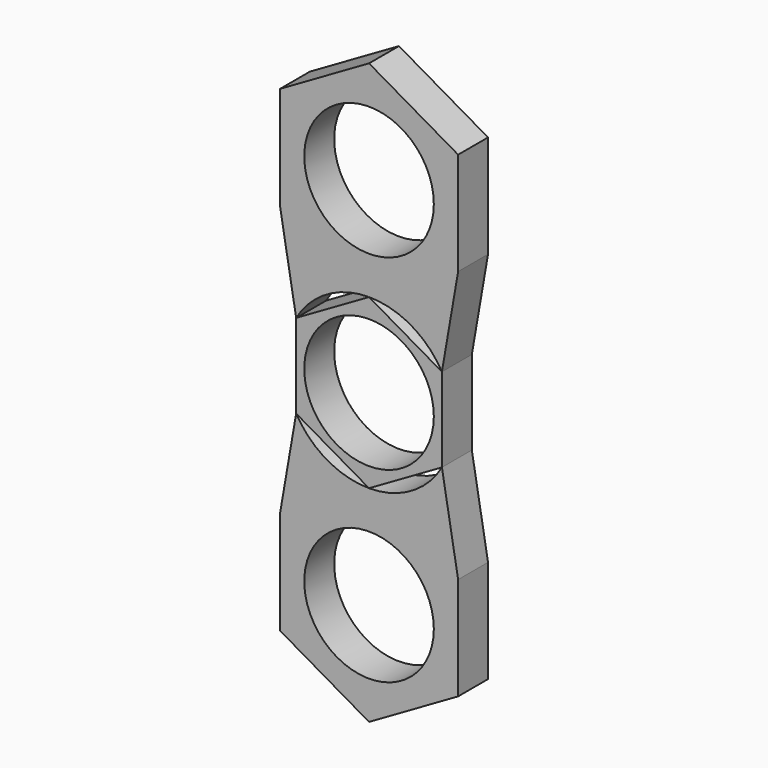
from build123d import *

# Parameters (mm, degrees)
F0_R     = 14.2875
F0_R_2   = 10.9982
F1_DEPTH = 6.35


with BuildPart() as f1:
    # F0 (on Front) → F1 (new body)
    with BuildSketch(Plane.XZ):
        with BuildLine():
            Line((-15.122969, -23.01875), (0, -14.2875))
            ThreePointArc((0, -14.2875), (-7.14375, -12.373338), (-12.373338, -7.14375))
            Line((-12.373338, -7.14375), (-15.122969, -23.01875))
        make_face()
        with BuildLine():
            Line((15.122969, -23.01875), (12.373338, -7.14375))
            ThreePointArc((12.373338, -7.14375), (7.14375, -12.373338), (0, -14.2875))
            Line((0, -14.2875), (15.122969, -23.01875))
        make_face()
        Polygon((-15.122969, 23.01875), (0, 14.2875), (15.122969, 23.01875), (15.122969, 40.48125), (0, 49.2125), (-15.122969, 40.48125), align=None)
        with Locations((0, 31.75)):
            Circle(F0_R, mode=Mode.SUBTRACT)
        Polygon((15.122969, -23.01875), (0, -14.2875), (-15.122969, -23.01875), (-15.122969, -40.48125), (0, -49.2125), (15.122969, -40.48125), align=None)
        with Locations((0, -31.75)):
            Circle(F0_R, mode=Mode.SUBTRACT)
        Polygon((12.373338, -7.14375), (12.373338, 7.14375), (0, 14.2875), (-12.373338, 7.14375), (-12.373338, -7.14375), (0, -14.2875), align=None)
        Circle(F0_R_2, mode=Mode.SUBTRACT)
        with Locations((0, -31.75)):
            Circle(F0_R)
        with Locations((0, -31.75)):
            Circle(F0_R_2, mode=Mode.SUBTRACT)
        with Locations((0, 31.75)):
            Circle(F0_R)
        with Locations((0, 31.75)):
            Circle(F0_R_2, mode=Mode.SUBTRACT)
        with BuildLine():
            ThreePointArc((-12.373338, 7.14375), (-7.14375, 12.373338), (0, 14.2875))
            Line((0, 14.2875), (-15.122969, 23.01875))
            Line((-15.122969, 23.01875), (-12.373338, 7.14375))
        make_face()
        with BuildLine():
            ThreePointArc((0, 14.2875), (7.14375, 12.373338), (12.373338, 7.14375))
            Line((12.373338, 7.14375), (15.122969, 23.01875))
            Line((15.122969, 23.01875), (0, 14.2875))
        make_face()
    extrude(amount=F1_DEPTH)


solid = f1.part
